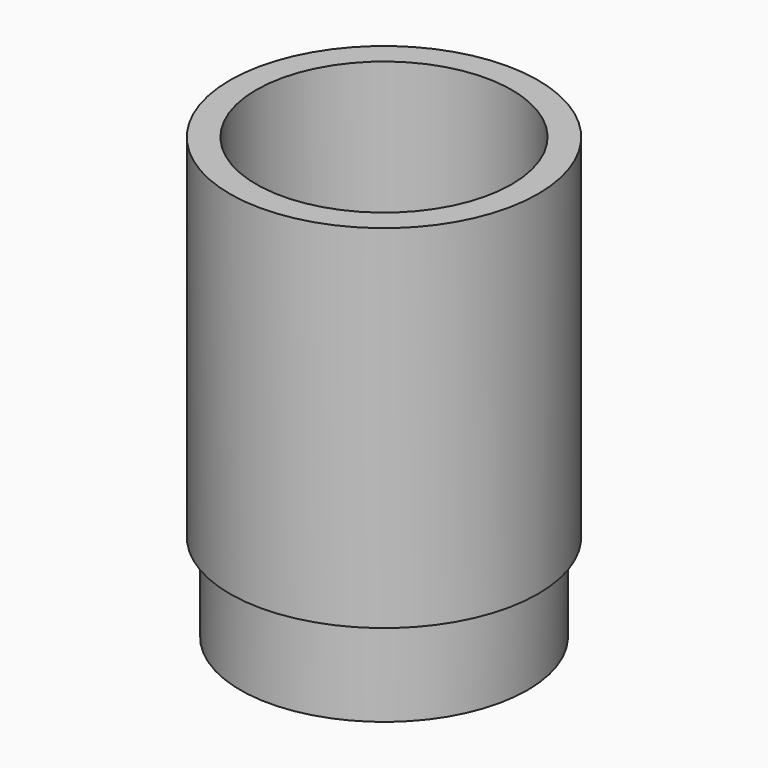
from build123d import *

# Parameters (mm, degrees)
F0_R        = 22.225
F1_DEPTH    = 63.5
F2_R        = 18.4381673654
F3_DEPTH    = 44.45
F4_R        = 22.225
F4_R_2      = 20.7260281568
F5_DEPTH    = 12.7
F6_R        = 14.6680324841
F1_FACE_R   = 22.225
F1_FACE_R_2 = 18.4381673654
F7_DEPTH    = 3.175


with BuildPart() as f1:
    # F0 (on Top) → F1 (new body)
    with BuildSketch(Plane.XY):
        Circle(F0_R)
    extrude(amount=F1_DEPTH)

    # F2 (on face) → F3 (cut)
    with BuildSketch(Plane.XY.offset(63.5)):
        Circle(F2_R)
    extrude(amount=-F3_DEPTH, mode=Mode.SUBTRACT)

    # F4 (on face) → F5 (cut)
    with BuildSketch(Plane(origin=(0, 0, 0), x_dir=(1, 0, 0), z_dir=(0, 0, -1))):
        Circle(F4_R)
        Circle(F4_R_2, mode=Mode.SUBTRACT)
    extrude(amount=-F5_DEPTH, mode=Mode.SUBTRACT)

    # F6 (on face) + F1_face (on face) → F7 (cut)
    with BuildSketch(Plane(origin=(0, 0, 0), x_dir=(1, 0, 0), z_dir=(0, 0, -1))):
        Circle(F6_R)
    with BuildSketch(Plane.XY.offset(63.5)):
        Circle(F1_FACE_R)
        Circle(F1_FACE_R_2, mode=Mode.SUBTRACT)
    extrude(amount=-F7_DEPTH, dir=(0, 0, -1), mode=Mode.SUBTRACT)


solid = f1.part
